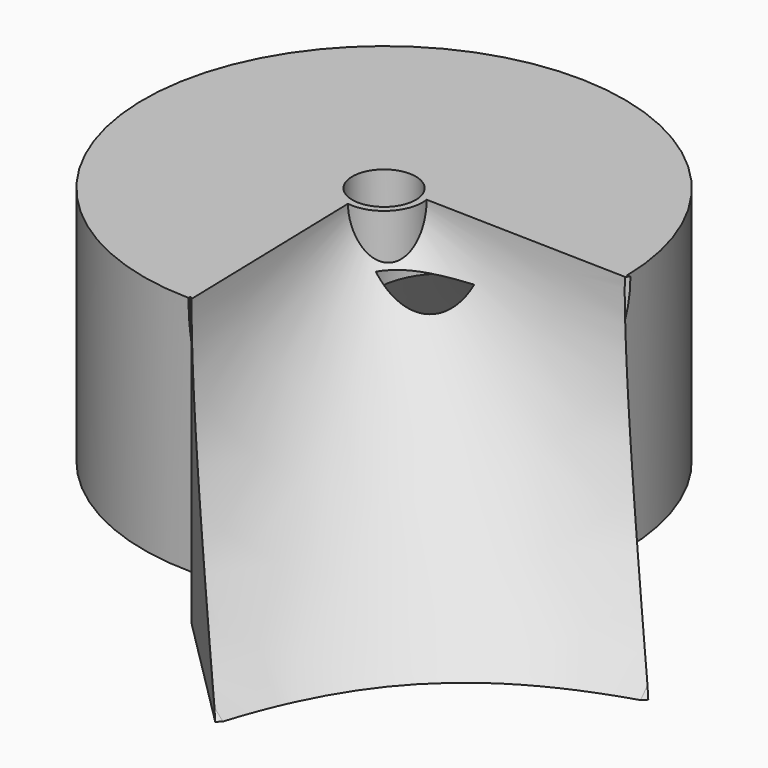
from build123d import *

# Parameters (mm, degrees)
BOX039_W                    = 44
BOX039_H                    = 8
BOX039_DEPTH                = 80
BOX039_PLACEMENT_ANGLE      = 42
CYLINDER023_R               = 1
CYLINDER023_DEPTH           = 10
CYLINDER023_PLACEMENT_ANGLE = 45
CYLINDER024_R               = 1
CYLINDER024_DEPTH           = 10
CYLINDER024_PLACEMENT_ANGLE = 45
CYLINDER022_R               = 15
CYLINDER022_DEPTH           = 80
CYLINDER022_PLACEMENT_ANGLE = 39
CYLINDER026_R               = 8.5
CYLINDER026_DEPTH           = 45
BOX038_W                    = 100
BOX038_H                    = 200
BOX038_DEPTH                = 50
BOX038_PITCH_ANGLE          = 60
BOX038_PLACEMENT_ANGLE      = -45
BOX041_W                    = 100
BOX041_H                    = 100
BOX041_DEPTH                = 100
BOX041_PLACEMENT_ANGLE      = 45
BOX042_W                    = 100
BOX042_H                    = 100
BOX042_DEPTH                = 100
BOX042_PLACEMENT_ANGLE      = 45
BOX043_W                    = 200
BOX043_H                    = 200
BOX043_DEPTH                = 200
CONE008_ANGLE               = 180
CONE008_ROLL_ANGLE          = -90
CONE008_PLACEMENT_ANGLE     = -135
CONE007_ANGLE               = 180
CONE007_ROLL_ANGLE          = -90
CONE007_PLACEMENT_ANGLE     = -135
CYLINDER027_R               = 53
CYLINDER027_DEPTH           = 60
BOX044_W                    = 38
BOX044_H                    = 75
BOX044_DEPTH                = 63
BOX044_PLACEMENT_ANGLE      = 45
CYLINDER025_R               = 53
CYLINDER025_DEPTH           = 53
TUBE018_R                   = 8.5
TUBE018_R_2                 = 7
TUBE018_DEPTH               = 53


with BuildPart() as cube039:
    # Box039 → Box039 (new body)
    with BuildSketch(Plane.XY):
        with Locations((22, 4)):
            Rectangle(BOX039_W, BOX039_H)
    extrude(amount=BOX039_DEPTH)


with BuildPart() as cube039_1:
    # Box039 placement: moved
    add(cube039.part.moved(Location((-5.13, -11.9828, -91))).rotate(Axis((-5.13, -11.9828, -91), (0, 0, 1)), BOX039_PLACEMENT_ANGLE))


with BuildPart() as cone009:
    # Cone009 → Cone009 (revolve)
    with BuildSketch(Plane(origin=(0, 0, -53), x_dir=(1, 0, 0), z_dir=(0, -1, 0))):
        Polygon((0, 0), (51.5, 0), (20, 29), (0, 29), align=None)
    revolve(axis=Axis((0, 0, -53), (0, 0, 1)))


with BuildPart() as cylinder023:
    # Cylinder023 → Cylinder023 (new body)
    with BuildSketch(Plane.XY):
        Circle(CYLINDER023_R)
    extrude(amount=CYLINDER023_DEPTH)


with BuildPart() as cylinder023_1:
    # Cylinder023 placement: moved
    add(cylinder023.part.moved(Location((-18.38, -7.07107, -11))).rotate(Axis((-18.38, -7.07107, -11), (0, 0, 1)), CYLINDER023_PLACEMENT_ANGLE))


with BuildPart() as cylinder024:
    # Cylinder024 → Cylinder024 (new body)
    with BuildSketch(Plane.XY):
        Circle(CYLINDER024_R)
    extrude(amount=CYLINDER024_DEPTH)


with BuildPart() as cylinder024_1:
    # Cylinder024 placement: moved
    add(cylinder024.part.moved(Location((22.49, 18.3848, -11))).rotate(Axis((22.49, 18.3848, -11), (0, 0, 1)), CYLINDER024_PLACEMENT_ANGLE))


with BuildPart() as fusion009012:
    # Cylinder022 → Cylinder022 (new body)
    with BuildSketch(Plane.XY):
        Circle(CYLINDER022_R)
    extrude(amount=CYLINDER022_DEPTH)


with BuildPart() as fusion009012_1:
    # Cylinder022 placement: moved
    add(fusion009012.part.moved(Location((8.58, 5.90251, -91))).rotate(Axis((8.58, 5.90251, -91), (0, 0, 1)), CYLINDER022_PLACEMENT_ANGLE))

    # Fusion009012: union Cube039, Cone009, Cylinder023, Cylinder024
    add(cube039_1.part)
    add(cone009.part)
    add(cylinder023_1.part)
    add(cylinder024_1.part)


with BuildPart() as cylinder026:
    # Cylinder026 → Cylinder026 (new body)
    with BuildSketch(Plane.XY.offset(-43)):
        Circle(CYLINDER026_R)
    extrude(amount=CYLINDER026_DEPTH)


with BuildPart() as cube038:
    # Box038 → Box038 (new body)
    with BuildSketch(Plane.XY):
        with Locations((50, 100)):
            Rectangle(BOX038_W, BOX038_H)
    extrude(amount=BOX038_DEPTH)


with BuildPart() as cube038_1:
    # Box038 pitch: moved
    add(cube038.part.rotate(Axis((0, 0, 0), (0, 1, 0)), BOX038_PITCH_ANGLE))


with BuildPart() as cube038_2:
    # Box038 placement: moved
    add(cube038_1.part.moved(Location((-38.183766, -91.923882, 0))).rotate(Axis((-38.183766, -91.923882, 0), (0, 0, 1)), BOX038_PLACEMENT_ANGLE))


with BuildPart() as cube041:
    # Box041 → Box041 (new body)
    with BuildSketch(Plane.XY):
        with Locations((50, 50)):
            Rectangle(BOX041_W, BOX041_H)
    extrude(amount=BOX041_DEPTH)


with BuildPart() as cube041_1:
    # Box041 placement: moved
    add(cube041.part.moved(Location((-71.320657, -123.15444, -92))).rotate(Axis((-71.320657, -123.15444, -92), (0, 0, -1)), BOX041_PLACEMENT_ANGLE))


with BuildPart() as cube042:
    # Box042 → Box042 (new body)
    with BuildSketch(Plane.XY):
        with Locations((50, 50)):
            Rectangle(BOX042_W, BOX042_H)
    extrude(amount=BOX042_DEPTH)


with BuildPart() as cube042_1:
    # Box042 placement: moved
    add(cube042.part.moved(Location((53.030932, 0.040624, -92))).rotate(Axis((53.030932, 0.040624, -92), (0, 0, -1)), BOX042_PLACEMENT_ANGLE))


with BuildPart() as cube043:
    # Box043 → Box043 (new body)
    with BuildSketch(Plane(origin=(-111, -128, -263), x_dir=(1, 0, 0), z_dir=(0, 0, 1))):
        with Locations((100, 100)):
            Rectangle(BOX043_W, BOX043_H)
    extrude(amount=BOX043_DEPTH)


with BuildPart() as fusion009014:
    # Cone008 → Cone008 (revolve)
    with BuildSketch(Plane.XZ):
        Polygon((0, 0), (2, 0), (78, 80), (0, 80), align=None)
    revolve(axis=Axis((0, 0, 0), (0, 0, 1)), revolution_arc=CONE008_ANGLE)


with BuildPart() as fusion009014_1:
    # Cone008 roll: moved
    add(fusion009014.part.rotate(Axis((0, 0, 0), (1, 0, 0)), CONE008_ROLL_ANGLE))


with BuildPart() as fusion009014_2:
    # Cone008 placement: moved
    add(fusion009014_1.part.rotate(Axis((0, 0, 0), (0, 0, 1)), CONE008_PLACEMENT_ANGLE))

    # Fusion009014: union Cube041, Cube042, Cube043
    add(cube041_1.part)
    add(cube042_1.part)
    add(cube043.part)


with BuildPart() as obj1:
    # Cone007 → Cone007 (revolve)
    with BuildSketch(Plane.XZ):
        Polygon((0, 0), (2, 0), (80, 80), (0, 80), align=None)
    revolve(axis=Axis((0, 0, 0), (0, 0, 1)), revolution_arc=CONE007_ANGLE)


with BuildPart() as obj1_1:
    # Cone007 roll: moved
    add(obj1.part.rotate(Axis((0, 0, 0), (1, 0, 0)), CONE007_ROLL_ANGLE))


with BuildPart() as obj1_2:
    # Cone007 placement: moved
    add(obj1_1.part.rotate(Axis((0, 0, 0), (0, 0, 1)), CONE007_PLACEMENT_ANGLE))


with BuildPart() as cut009009:
    # Cut009017 base: copy of obj1
    add(obj1_2.part)

    # Cut009017: cut Fusion009014
    add(fusion009014_2.part, mode=Mode.SUBTRACT)

    # Cut009009: cut Cube038
    add(cube038_2.part, mode=Mode.SUBTRACT)


with BuildPart() as cylinder027:
    # Cylinder027 → Cylinder027 (new body)
    with BuildSketch(Plane.XY.offset(-63)):
        Circle(CYLINDER027_R)
    extrude(amount=CYLINDER027_DEPTH)


with BuildPart() as cut009012:
    # Box044 → Box044 (new body)
    with BuildSketch(Plane.XY):
        with Locations((19, 37.5)):
            Rectangle(BOX044_W, BOX044_H)
    extrude(amount=BOX044_DEPTH)


with BuildPart() as cut009012_1:
    # Box044 placement: moved
    add(cut009012.part.moved(Location((-0.609979, -52.443762, -63))).rotate(Axis((-0.609979, -52.443762, -63), (0, 0, -1)), BOX044_PLACEMENT_ANGLE))

    # Cut009012: cut Cylinder027
    add(cylinder027.part, mode=Mode.SUBTRACT)


with BuildPart() as cut009010:
    # Cylinder025 → Cylinder025 (new body)
    with BuildSketch(Plane.XY.offset(-53)):
        Circle(CYLINDER025_R)
    extrude(amount=CYLINDER025_DEPTH)

    # Fusion009013: union Cut009012
    add(cut009012_1.part)

    # Cut009011: cut obj1
    add(obj1_2.part, mode=Mode.SUBTRACT)

    # Fusion009011: union Cut009009
    add(cut009009.part)

    # Cut009010: cut Cylinder026
    add(cylinder026.part, mode=Mode.SUBTRACT)


with BuildPart() as cut009_middle002:
    # Tube018 → Tube018 (new body)
    with BuildSketch(Plane.XY.offset(-53)):
        Circle(TUBE018_R)
        Circle(TUBE018_R_2, mode=Mode.SUBTRACT)
    extrude(amount=TUBE018_DEPTH)

    # Fusion009010: union Cut009010
    add(cut009010.part)

    # Cut009013: cut Fusion009012
    add(fusion009012_1.part, mode=Mode.SUBTRACT)


solid = cut009_middle002.part
